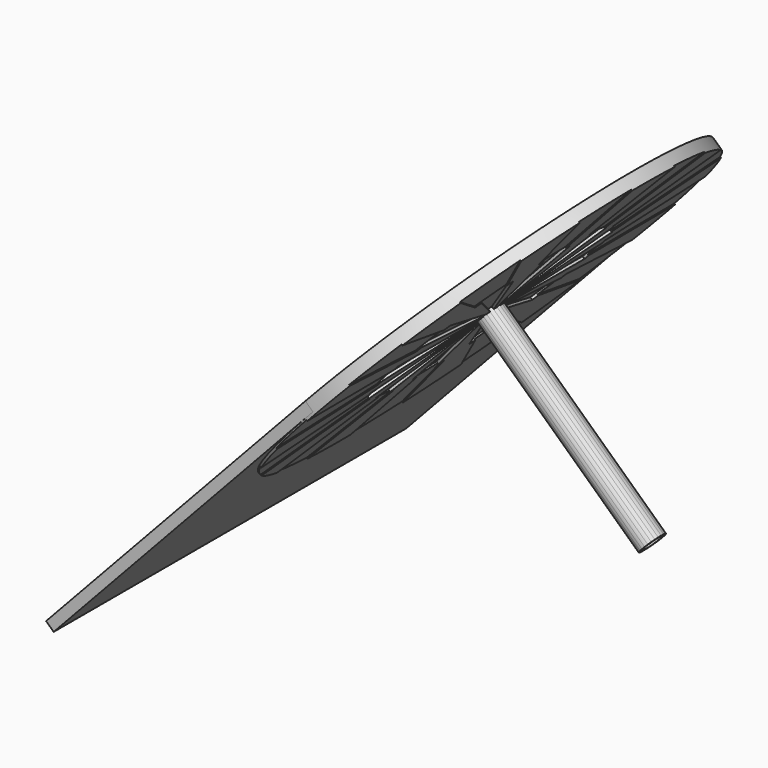
from build123d import *

# Parameters (mm, degrees)
F4_DEPTH = 20
F5_DEPTH = 25
F6_DEPTH = 23
F7_DEPTH = 25
F2_R     = 20
F8_DEPTH = 450


with BuildPart() as f4:
    # F2 (on line) → F4 (new body)
    with BuildSketch(Plane(origin=(34.8782368721, 0, -32.5244820611), x_dir=(0, -1, 0), z_dir=(-0.7313537016, 0, 0.6819983601))):
        with BuildLine():
            ThreePointArc((425, 681.9983600625), (424.8543631146, 670.8731570317), (424.4175522707, 659.7555786592))
            ThreePointArc((424.4175522707, 659.7555786592), (417.8833357147, 604.5482617283), (404.1990194254, 550.6661374531))
            ThreePointArc((404.1990194254, 550.6661374531), (383.5987458487, 499.031143919), (356.4349913768, 450.5267701811))
            ThreePointArc((356.4349913768, 450.5267701811), (323.17253538, 405.9829395222), (284.3805077025, 366.1618092346))
            ThreePointArc((284.3805077025, 366.1618092346), (240.7226506931, 331.7447298981), (192.9459623893, 303.3205872824))
            ThreePointArc((192.9459623893, 303.3205872824), (141.8679151744, 281.3757263483), (88.3624685975, 266.2856297506))
            ThreePointArc((88.3624685975, 266.2856297506), (33.3451156843, 258.3084932259), (-22.2427814033, 257.5808077918))
            ThreePointArc((-22.2427814033, 257.5808077918), (-77.4500983342, 264.1150243478), (-131.3322226094, 277.7993406371))
            ThreePointArc((-131.3322226094, 277.7993406371), (-182.9672161435, 298.3996142138), (-231.4715898814, 325.5633686857))
            ThreePointArc((-231.4715898814, 325.5633686857), (-276.0154205403, 358.8258246825), (-315.8365508279, 397.61785236))
            ThreePointArc((-315.8365508279, 397.61785236), (-350.2536301644, 441.2757093694), (-378.6777727801, 489.0523976732))
            ThreePointArc((-378.6777727801, 489.0523976732), (-400.6226337142, 540.1304448881), (-415.7127303119, 593.635891465))
            ThreePointArc((-415.7127303119, 593.635891465), (-422.6718055315, 637.5737631737), (-425, 681.9983600625))
            Line((-425, 681.9983600625), (-425, -51.1412327573))
            Line((-425, -51.1412327573), (425, -51.1412327573))
            Line((425, -51.1412327573), (425, 681.9983600625))
        make_face()
    extrude(amount=-F4_DEPTH)



with BuildPart() as f4b:
    # F2 (on line) → F4, piece 2 (new body)
    with BuildSketch(Plane(origin=(34.8782368721, 0, -32.5244820611), x_dir=(0, -1, 0), z_dir=(-0.7313537016, 0, 0.6819983601))):
        with BuildLine():
            ThreePointArc((0, 706.9983600625), (3.2631548055, 706.7844815968), (6.4704761276, 706.1465057197))
            Line((6.4704761276, 706.1465057197), (58.2342851481, 899.3316709775))
            ThreePointArc((58.2342851481, 899.3316709775), (35.1977546341, 904.2282366964), (11.7755901547, 906.6900053823))
            ThreePointArc((11.7755901547, 906.6900053823), (5.8898133693, 906.921258182), (0, 906.9983600625))
            Line((0, 906.9983600625), (0, 706.9983600625))
        make_face()
    extrude(amount=-F4_DEPTH)



with BuildPart() as f4c:
    # F2 (on line) → F4, piece 3 (new body)
    with BuildSketch(Plane(origin=(34.8782368721, 0, -32.5244820611), x_dir=(0, -1, 0), z_dir=(-0.7313537016, 0, 0.6819983601))):
        with BuildLine():
            ThreePointArc((12.5, 703.6489951571), (15.2190357252, 701.8321935698), (17.6776695297, 699.6760295922))
            Line((17.6776695297, 699.6760295922), (159.099025767, 841.0973858295))
            ThreePointArc((159.099025767, 841.0973858295), (141.5970879862, 856.8562013903), (122.5437828784, 870.6992378502))
            ThreePointArc((122.5437828784, 870.6992378502), (117.5621770611, 873.8423970422), (112.5, 876.854075914))
            Line((112.5, 876.854075914), (12.5, 703.6489951571))
        make_face()
    extrude(amount=-F4_DEPTH)



with BuildPart() as f4d:
    # F2 (on line) → F4, piece 4 (new body)
    with BuildSketch(Plane(origin=(34.8782368721, 0, -32.5244820611), x_dir=(0, -1, 0), z_dir=(-0.7313537016, 0, 0.6819983601))):
        with BuildLine():
            ThreePointArc((21.6506350946, 694.4983600625), (23.0969883128, 691.5654458716), (24.1481456572, 688.4688361901))
            Line((24.1481456572, 688.4688361901), (217.333310915, 740.2326452106))
            ThreePointArc((217.333310915, 740.2326452106), (210.0555959619, 762.6311487102), (200.4764679424, 784.1462225039))
            ThreePointArc((200.4764679424, 784.1462225039), (197.7338503489, 789.3590811209), (194.8557158515, 794.4983600625))
            Line((194.8557158515, 794.4983600625), (21.6506350946, 694.4983600625))
        make_face()
    extrude(amount=-F4_DEPTH)



with BuildPart() as f4e:
    # F2 (on line) → F4, piece 5 (new body)
    with BuildSketch(Plane(origin=(34.8782368721, 0, -32.5244820611), x_dir=(0, -1, 0), z_dir=(-0.7313537016, 0, 0.6819983601))):
        with BuildLine():
            Line((225, 681.9983600625), (25, 681.9983600625))
            ThreePointArc((25, 681.9983600625), (24.7861215343, 678.735205257), (24.1481456572, 675.5278839349))
            Line((24.1481456572, 675.5278839349), (217.333310915, 623.7640749144))
            ThreePointArc((217.333310915, 623.7640749144), (222.2298766339, 646.8006054284), (224.6916453198, 670.2227699078))
            ThreePointArc((224.6916453198, 670.2227699078), (224.9228981195, 676.1085466932), (225, 681.9983600625))
        make_face()
    extrude(amount=-F4_DEPTH)


with BuildPart() as f4f:
    # F2 (on line) → F4, piece 6 (new body)
    with BuildSketch(Plane(origin=(34.8782368721, 0, -32.5244820611), x_dir=(0, -1, 0), z_dir=(-0.7313537016, 0, 0.6819983601))):
        with BuildLine():
            Line((194.8557158515, 569.4983600625), (21.6506350946, 669.4983600625))
            ThreePointArc((21.6506350946, 669.4983600625), (19.8338335073, 666.7793243373), (17.6776695297, 664.3206905328))
            Line((17.6776695297, 664.3206905328), (159.099025767, 522.8993342955))
            ThreePointArc((159.099025767, 522.8993342955), (174.8578413278, 540.4012720763), (188.7008777877, 559.4545771841))
            ThreePointArc((188.7008777877, 559.4545771841), (191.8440369797, 564.4361830014), (194.8557158515, 569.4983600625))
        make_face()
    extrude(amount=-F4_DEPTH)


with BuildPart() as f4g:
    # F2 (on line) → F4, piece 7 (new body)
    with BuildSketch(Plane(origin=(34.8782368721, 0, -32.5244820611), x_dir=(0, -1, 0), z_dir=(-0.7313537016, 0, 0.6819983601))):
        with BuildLine():
            Line((112.5, 487.142644211), (12.5, 660.3477249679))
            ThreePointArc((12.5, 660.3477249679), (9.5670858091, 658.9013717497), (6.4704761276, 657.8502144053))
            Line((6.4704761276, 657.8502144053), (58.2342851481, 464.6650491475))
            ThreePointArc((58.2342851481, 464.6650491475), (80.6327886477, 471.9427641006), (102.1478624414, 481.5218921201))
            ThreePointArc((102.1478624414, 481.5218921201), (107.3607210584, 484.2645097136), (112.5, 487.142644211))
        make_face()
    extrude(amount=-F4_DEPTH)


with BuildPart() as f4h:
    # F2 (on line) → F4, piece 8 (new body)
    with BuildSketch(Plane(origin=(34.8782368721, 0, -32.5244820611), x_dir=(0, -1, 0), z_dir=(-0.7313537016, 0, 0.6819983601))):
        with BuildLine():
            Line((0, 456.9983600625), (0, 656.9983600625))
            ThreePointArc((0, 656.9983600625), (-3.2631548055, 657.2122385282), (-6.4704761276, 657.8502144053))
            Line((-6.4704761276, 657.8502144053), (-58.2342851481, 464.6650491475))
            ThreePointArc((-58.2342851481, 464.6650491475), (-35.1977546341, 459.7684834286), (-11.7755901547, 457.3067147427))
            ThreePointArc((-11.7755901547, 457.3067147427), (-5.8898133693, 457.075461943), (0, 456.9983600625))
        make_face()
    extrude(amount=-F4_DEPTH)


with BuildPart() as f4i:
    # F2 (on line) → F4, piece 9 (new body)
    with BuildSketch(Plane(origin=(34.8782368721, 0, -32.5244820611), x_dir=(0, -1, 0), z_dir=(-0.7313537016, 0, 0.6819983601))):
        with BuildLine():
            Line((-112.5, 487.142644211), (-12.5, 660.3477249679))
            ThreePointArc((-12.5, 660.3477249679), (-15.2190357252, 662.1645265552), (-17.6776695297, 664.3206905328))
            Line((-17.6776695297, 664.3206905328), (-159.099025767, 522.8993342955))
            ThreePointArc((-159.099025767, 522.8993342955), (-141.5970879862, 507.1405187347), (-122.5437828784, 493.2974822748))
            ThreePointArc((-122.5437828784, 493.2974822748), (-117.5621770611, 490.1543230828), (-112.5, 487.142644211))
        make_face()
    extrude(amount=-F4_DEPTH)


with BuildPart() as f4j:
    # F2 (on line) → F4, piece 10 (new body)
    with BuildSketch(Plane(origin=(34.8782368721, 0, -32.5244820611), x_dir=(0, -1, 0), z_dir=(-0.7313537016, 0, 0.6819983601))):
        with BuildLine():
            Line((-194.8557158515, 569.4983600625), (-21.6506350946, 669.4983600625))
            ThreePointArc((-21.6506350946, 669.4983600625), (-23.0969883128, 672.4312742534), (-24.1481456572, 675.5278839349))
            Line((-24.1481456572, 675.5278839349), (-217.333310915, 623.7640749144))
            ThreePointArc((-217.333310915, 623.7640749144), (-210.0555959619, 601.3655714148), (-200.4764679424, 579.8504976211))
            ThreePointArc((-200.4764679424, 579.8504976211), (-197.7338503489, 574.6376390041), (-194.8557158515, 569.4983600625))
        make_face()
    extrude(amount=-F4_DEPTH)


with BuildPart() as f4k:
    # F2 (on line) → F4, piece 11 (new body)
    with BuildSketch(Plane(origin=(34.8782368721, 0, -32.5244820611), x_dir=(0, -1, 0), z_dir=(-0.7313537016, 0, 0.6819983601))):
        with BuildLine():
            ThreePointArc((-217.333310915, 740.2326452106), (-222.2298766339, 717.1961146966), (-224.6916453198, 693.7739502172))
            ThreePointArc((-224.6916453198, 693.7739502172), (-224.9228981195, 687.8881734318), (-225, 681.9983600625))
            Line((-225, 681.9983600625), (-25, 681.9983600625))
            ThreePointArc((-25, 681.9983600625), (-24.7861215343, 685.261514868), (-24.1481456572, 688.4688361901))
            Line((-24.1481456572, 688.4688361901), (-217.333310915, 740.2326452106))
        make_face()
    extrude(amount=-F4_DEPTH)



with BuildPart() as f4l:
    # F2 (on line) → F4, piece 12 (new body)
    with BuildSketch(Plane(origin=(34.8782368721, 0, -32.5244820611), x_dir=(0, -1, 0), z_dir=(-0.7313537016, 0, 0.6819983601))):
        with BuildLine():
            ThreePointArc((-21.6506350946, 694.4983600625), (-19.8338335073, 697.2173957877), (-17.6776695297, 699.6760295922))
            Line((-17.6776695297, 699.6760295922), (-159.099025767, 841.0973858295))
            ThreePointArc((-159.099025767, 841.0973858295), (-174.8578413278, 823.5954480487), (-188.7008777877, 804.5421429409))
            ThreePointArc((-188.7008777877, 804.5421429409), (-191.8440369797, 799.5605371236), (-194.8557158515, 794.4983600625))
            Line((-194.8557158515, 794.4983600625), (-21.6506350946, 694.4983600625))
        make_face()
    extrude(amount=-F4_DEPTH)



with BuildPart() as f4m:
    # F2 (on line) → F4, piece 13 (new body)
    with BuildSketch(Plane(origin=(34.8782368721, 0, -32.5244820611), x_dir=(0, -1, 0), z_dir=(-0.7313537016, 0, 0.6819983601))):
        with BuildLine():
            ThreePointArc((-12.5, 703.6489951571), (-9.5670858091, 705.0953483753), (-6.4704761276, 706.1465057197))
            Line((-6.4704761276, 706.1465057197), (-58.2342851481, 899.3316709775))
            ThreePointArc((-58.2342851481, 899.3316709775), (-80.6327886477, 892.0539560244), (-102.1478624414, 882.4748280049))
            ThreePointArc((-102.1478624414, 882.4748280049), (-107.3607210584, 879.7322104114), (-112.5, 876.854075914))
            Line((-112.5, 876.854075914), (-12.5, 703.6489951571))
        make_face()
    extrude(amount=-F4_DEPTH)



with BuildPart() as f5:
    # F2 (on line) → F5 (new body)
    with BuildSketch(Plane(origin=(34.8782368721, 0, -32.5244820611), x_dir=(0, -1, 0), z_dir=(-0.7313537016, 0, 0.6819983601))):
        with BuildLine():
            ThreePointArc((17.6776695297, 699.6760295922), (19.8338335073, 697.2173957877), (21.6506350946, 694.4983600625))
            Line((21.6506350946, 694.4983600625), (194.8557158515, 794.4983600625))
            ThreePointArc((194.8557158515, 794.4983600625), (182.0288237344, 814.2500418283), (167.2075857324, 832.5527464932))
            ThreePointArc((167.2075857324, 832.5527464932), (163.2092334778, 836.8781395936), (159.099025767, 841.0973858295))
            Line((159.099025767, 841.0973858295), (17.6776695297, 699.6760295922))
        make_face()
    extrude(amount=-F5_DEPTH)


with BuildPart() as f5b:
    # F2 (on line) → F5, piece 2 (new body)
    with BuildSketch(Plane(origin=(34.8782368721, 0, -32.5244820611), x_dir=(0, -1, 0), z_dir=(-0.7313537016, 0, 0.6819983601))):
        with BuildLine():
            ThreePointArc((6.4704761276, 706.1465057197), (9.5670858091, 705.0953483753), (12.5, 703.6489951571))
            Line((12.5, 703.6489951571), (112.5, 876.854075914))
            ThreePointArc((112.5, 876.854075914), (91.5157446921, 887.5460880321), (69.5288237344, 895.9860762289))
            ThreePointArc((69.5288237344, 895.9860762289), (63.9034525584, 897.7328004078), (58.2342851481, 899.3316709775))
            Line((58.2342851481, 899.3316709775), (6.4704761276, 706.1465057197))
        make_face()
    extrude(amount=-F5_DEPTH)


with BuildPart() as f5c:
    # F2 (on line) → F5, piece 3 (new body)
    with BuildSketch(Plane(origin=(34.8782368721, 0, -32.5244820611), x_dir=(0, -1, 0), z_dir=(-0.7313537016, 0, 0.6819983601))):
        with BuildLine():
            ThreePointArc((-6.4704761276, 706.1465057197), (-3.2631548055, 706.7844815968), (0, 706.9983600625))
            Line((0, 706.9983600625), (0, 906.9983600625))
            ThreePointArc((0, 906.9983600625), (-23.5189042352, 905.7657865204), (-46.780130434, 902.0815702276))
            ThreePointArc((-46.780130434, 902.0815702276), (-52.5252068676, 900.781592152), (-58.2342851481, 899.3316709775))
            Line((-58.2342851481, 899.3316709775), (-6.4704761276, 706.1465057197))
        make_face()
    extrude(amount=-F5_DEPTH)


with BuildPart() as f5d:
    # F2 (on line) → F5, piece 4 (new body)
    with BuildSketch(Plane(origin=(34.8782368721, 0, -32.5244820611), x_dir=(0, -1, 0), z_dir=(-0.7313537016, 0, 0.6819983601))):
        with BuildLine():
            ThreePointArc((-17.6776695297, 699.6760295922), (-15.2190357252, 701.8321935698), (-12.5, 703.6489951571))
            Line((-12.5, 703.6489951571), (-112.5, 876.854075914))
            ThreePointArc((-112.5, 876.854075914), (-132.2516817658, 864.0271837969), (-150.5543864307, 849.2059457949))
            ThreePointArc((-150.5543864307, 849.2059457949), (-154.8797795311, 845.2075935403), (-159.099025767, 841.0973858295))
            Line((-159.099025767, 841.0973858295), (-17.6776695297, 699.6760295922))
        make_face()
    extrude(amount=-F5_DEPTH)


with BuildPart() as f5e:
    # F2 (on line) → F5, piece 5 (new body)
    with BuildSketch(Plane(origin=(34.8782368721, 0, -32.5244820611), x_dir=(0, -1, 0), z_dir=(-0.7313537016, 0, 0.6819983601))):
        with BuildLine():
            ThreePointArc((-24.1481456572, 688.4688361901), (-23.0969883128, 691.5654458716), (-21.6506350946, 694.4983600625))
            Line((-21.6506350946, 694.4983600625), (-194.8557158515, 794.4983600625))
            ThreePointArc((-194.8557158515, 794.4983600625), (-205.5477279696, 773.5141047546), (-213.9877161664, 751.5271837969))
            ThreePointArc((-213.9877161664, 751.5271837969), (-215.7344403453, 745.9018126209), (-217.333310915, 740.2326452106))
            Line((-217.333310915, 740.2326452106), (-24.1481456572, 688.4688361901))
        make_face()
    extrude(amount=-F5_DEPTH)


with BuildPart() as f5f:
    # F2 (on line) → F5, piece 6 (new body)
    with BuildSketch(Plane(origin=(34.8782368721, 0, -32.5244820611), x_dir=(0, -1, 0), z_dir=(-0.7313537016, 0, 0.6819983601))):
        with BuildLine():
            ThreePointArc((-225, 681.9983600625), (-223.7674264579, 658.4794558273), (-220.0832101651, 635.2182296285))
            ThreePointArc((-220.0832101651, 635.2182296285), (-218.7832320895, 629.4731531949), (-217.333310915, 623.7640749144))
            Line((-217.333310915, 623.7640749144), (-24.1481456572, 675.5278839349))
            ThreePointArc((-24.1481456572, 675.5278839349), (-24.7861215343, 678.735205257), (-25, 681.9983600625))
            Line((-25, 681.9983600625), (-225, 681.9983600625))
        make_face()
    extrude(amount=-F5_DEPTH)


with BuildPart() as f5g:
    # F2 (on line) → F5, piece 7 (new body)
    with BuildSketch(Plane(origin=(34.8782368721, 0, -32.5244820611), x_dir=(0, -1, 0), z_dir=(-0.7313537016, 0, 0.6819983601))):
        with BuildLine():
            Line((-159.099025767, 522.8993342955), (-17.6776695297, 664.3206905328))
            ThreePointArc((-17.6776695297, 664.3206905328), (-19.8338335073, 666.7793243373), (-21.6506350946, 669.4983600625))
            Line((-21.6506350946, 669.4983600625), (-194.8557158515, 569.4983600625))
            ThreePointArc((-194.8557158515, 569.4983600625), (-182.0288237344, 549.7466782967), (-167.2075857324, 531.4439736318))
            ThreePointArc((-167.2075857324, 531.4439736318), (-163.2092334778, 527.1185805314), (-159.099025767, 522.8993342955))
        make_face()
    extrude(amount=-F5_DEPTH)


with BuildPart() as f5h:
    # F2 (on line) → F5, piece 8 (new body)
    with BuildSketch(Plane(origin=(34.8782368721, 0, -32.5244820611), x_dir=(0, -1, 0), z_dir=(-0.7313537016, 0, 0.6819983601))):
        with BuildLine():
            Line((-58.2342851481, 464.6650491475), (-6.4704761276, 657.8502144053))
            ThreePointArc((-6.4704761276, 657.8502144053), (-9.5670858091, 658.9013717497), (-12.5, 660.3477249679))
            Line((-12.5, 660.3477249679), (-112.5, 487.142644211))
            ThreePointArc((-112.5, 487.142644211), (-91.5157446921, 476.4506320929), (-69.5288237344, 468.0106438961))
            ThreePointArc((-69.5288237344, 468.0106438961), (-63.9034525584, 466.2639197172), (-58.2342851481, 464.6650491475))
        make_face()
    extrude(amount=-F5_DEPTH)


with BuildPart() as f5i:
    # F2 (on line) → F5, piece 9 (new body)
    with BuildSketch(Plane(origin=(34.8782368721, 0, -32.5244820611), x_dir=(0, -1, 0), z_dir=(-0.7313537016, 0, 0.6819983601))):
        with BuildLine():
            Line((58.2342851481, 464.6650491475), (6.4704761276, 657.8502144053))
            ThreePointArc((6.4704761276, 657.8502144053), (3.2631548055, 657.2122385282), (0, 656.9983600625))
            Line((0, 656.9983600625), (0, 456.9983600625))
            ThreePointArc((0, 456.9983600625), (23.5189042352, 458.2309336046), (46.780130434, 461.9151498974))
            ThreePointArc((46.780130434, 461.9151498974), (52.5252068676, 463.215127973), (58.2342851481, 464.6650491475))
        make_face()
    extrude(amount=-F5_DEPTH)


with BuildPart() as f5j:
    # F2 (on line) → F5, piece 10 (new body)
    with BuildSketch(Plane(origin=(34.8782368721, 0, -32.5244820611), x_dir=(0, -1, 0), z_dir=(-0.7313537016, 0, 0.6819983601))):
        with BuildLine():
            Line((159.099025767, 522.8993342955), (17.6776695297, 664.3206905328))
            ThreePointArc((17.6776695297, 664.3206905328), (15.2190357252, 662.1645265552), (12.5, 660.3477249679))
            Line((12.5, 660.3477249679), (112.5, 487.142644211))
            ThreePointArc((112.5, 487.142644211), (132.2516817658, 499.9695363281), (150.5543864307, 514.7907743301))
            ThreePointArc((150.5543864307, 514.7907743301), (154.8797795311, 518.7891265847), (159.099025767, 522.8993342955))
        make_face()
    extrude(amount=-F5_DEPTH)


with BuildPart() as f5k:
    # F2 (on line) → F5, piece 11 (new body)
    with BuildSketch(Plane(origin=(34.8782368721, 0, -32.5244820611), x_dir=(0, -1, 0), z_dir=(-0.7313537016, 0, 0.6819983601))):
        with BuildLine():
            Line((217.333310915, 623.7640749144), (24.1481456572, 675.5278839349))
            ThreePointArc((24.1481456572, 675.5278839349), (23.0969883128, 672.4312742534), (21.6506350946, 669.4983600625))
            Line((21.6506350946, 669.4983600625), (194.8557158515, 569.4983600625))
            ThreePointArc((194.8557158515, 569.4983600625), (205.5477279696, 590.4826153704), (213.9877161664, 612.4695363281))
            ThreePointArc((213.9877161664, 612.4695363281), (215.7344403453, 618.0949075041), (217.333310915, 623.7640749144))
        make_face()
    extrude(amount=-F5_DEPTH)


with BuildPart() as f5l:
    # F2 (on line) → F5, piece 12 (new body)
    with BuildSketch(Plane(origin=(34.8782368721, 0, -32.5244820611), x_dir=(0, -1, 0), z_dir=(-0.7313537016, 0, 0.6819983601))):
        with BuildLine():
            ThreePointArc((24.1481456572, 688.4688361901), (24.7861215343, 685.261514868), (25, 681.9983600625))
            Line((25, 681.9983600625), (225, 681.9983600625))
            ThreePointArc((225, 681.9983600625), (223.7674264579, 705.5172642977), (220.0832101651, 728.7784904965))
            ThreePointArc((220.0832101651, 728.7784904965), (218.7832320895, 734.5235669301), (217.333310915, 740.2326452106))
            Line((217.333310915, 740.2326452106), (24.1481456572, 688.4688361901))
        make_face()
    extrude(amount=-F5_DEPTH)


with BuildPart() as f4d_1:
    add(f4d.part)

    add(f5l.part)  # F6 merges F5l
    # F2 (on line) → F6 (join)
    with BuildSketch(Plane(origin=(34.8782368721, 0, -32.5244820611), x_dir=(0, -1, 0), z_dir=(-0.7313537016, 0, 0.6819983601))):
        with BuildLine():
            ThreePointArc((200.4764679424, 784.1462225039), (210.0555959619, 762.6311487102), (217.333310915, 740.2326452106))
            ThreePointArc((217.333310915, 740.2326452106), (218.7832320895, 734.5235669301), (220.0832101651, 728.7784904965))
            Line((220.0832101651, 728.7784904965), (415.7127303119, 770.36082866))
            ThreePointArc((415.7127303119, 770.36082866), (400.6226337142, 823.8662752369), (378.6777727801, 874.9443224518))
            Line((378.6777727801, 874.9443224518), (200.4764679424, 784.1462225039))
        make_face()
    extrude(amount=-F6_DEPTH)


with BuildPart() as f4c_1:
    add(f4c.part)

    add(f5.part)  # F6#2 merges F5
    # F2 (on line) → F6, piece 2 (join)
    with BuildSketch(Plane(origin=(34.8782368721, 0, -32.5244820611), x_dir=(0, -1, 0), z_dir=(-0.7313537016, 0, 0.6819983601))):
        with BuildLine():
            ThreePointArc((122.5437828784, 870.6992378502), (141.5970879862, 856.8562013903), (159.099025767, 841.0973858295))
            ThreePointArc((159.099025767, 841.0973858295), (163.2092334778, 836.8781395936), (167.2075857324, 832.5527464932))
            Line((167.2075857324, 832.5527464932), (315.8365508279, 966.378867765))
            ThreePointArc((315.8365508279, 966.378867765), (276.0154205403, 1005.1708954425), (231.4715898814, 1038.4333514393))
            Line((231.4715898814, 1038.4333514393), (122.5437828784, 870.6992378502))
        make_face()
    extrude(amount=-F6_DEPTH)


with BuildPart() as f4b_1:
    add(f4b.part)

    add(f5b.part)  # F6#3 merges F5b
    # F2 (on line) → F6, piece 3 (join)
    with BuildSketch(Plane(origin=(34.8782368721, 0, -32.5244820611), x_dir=(0, -1, 0), z_dir=(-0.7313537016, 0, 0.6819983601))):
        with BuildLine():
            ThreePointArc((11.7755901547, 906.6900053823), (35.1977546341, 904.2282366964), (58.2342851481, 899.3316709775))
            ThreePointArc((58.2342851481, 899.3316709775), (63.9034525584, 897.7328004078), (69.5288237344, 895.9860762289))
            Line((69.5288237344, 895.9860762289), (131.3322226094, 1086.1973794879))
            ThreePointArc((131.3322226094, 1086.1973794879), (77.4500983342, 1099.8816957772), (22.2427814033, 1106.4159123332))
            Line((22.2427814033, 1106.4159123332), (11.7755901547, 906.6900053823))
        make_face()
    extrude(amount=-F6_DEPTH)


with BuildPart() as f4m_1:
    add(f4m.part)

    add(f5c.part)  # F6#4 merges F5c
    # F2 (on line) → F6, piece 4 (join)
    with BuildSketch(Plane(origin=(34.8782368721, 0, -32.5244820611), x_dir=(0, -1, 0), z_dir=(-0.7313537016, 0, 0.6819983601))):
        with BuildLine():
            ThreePointArc((-102.1478624414, 882.4748280049), (-80.6327886477, 892.0539560244), (-58.2342851481, 899.3316709775))
            ThreePointArc((-58.2342851481, 899.3316709775), (-52.5252068676, 900.781592152), (-46.780130434, 902.0815702276))
            Line((-46.780130434, 902.0815702276), (-88.3624685975, 1097.7110903744))
            ThreePointArc((-88.3624685975, 1097.7110903744), (-141.8679151744, 1082.6209937767), (-192.9459623893, 1060.6761328426))
            Line((-192.9459623893, 1060.6761328426), (-102.1478624414, 882.4748280049))
        make_face()
    extrude(amount=-F6_DEPTH)


with BuildPart() as f4l_1:
    add(f4l.part)

    add(f5d.part)  # F6#5 merges F5d
    # F2 (on line) → F6, piece 5 (join)
    with BuildSketch(Plane(origin=(34.8782368721, 0, -32.5244820611), x_dir=(0, -1, 0), z_dir=(-0.7313537016, 0, 0.6819983601))):
        with BuildLine():
            ThreePointArc((-188.7008777877, 804.5421429409), (-174.8578413278, 823.5954480487), (-159.099025767, 841.0973858295))
            ThreePointArc((-159.099025767, 841.0973858295), (-154.8797795311, 845.2075935403), (-150.5543864307, 849.2059457949))
            Line((-150.5543864307, 849.2059457949), (-284.3805077025, 997.8349108904))
            ThreePointArc((-284.3805077025, 997.8349108904), (-323.17253538, 958.0137806028), (-356.4349913768, 913.4699499439))
            Line((-356.4349913768, 913.4699499439), (-188.7008777877, 804.5421429409))
        make_face()
    extrude(amount=-F6_DEPTH)


with BuildPart() as f4k_1:
    add(f4k.part)

    add(f5e.part)  # F6#6 merges F5e
    # F2 (on line) → F6, piece 6 (join)
    with BuildSketch(Plane(origin=(34.8782368721, 0, -32.5244820611), x_dir=(0, -1, 0), z_dir=(-0.7313537016, 0, 0.6819983601))):
        with BuildLine():
            ThreePointArc((-404.1990194254, 813.3305826719), (-417.8833357147, 759.4484583967), (-424.4175522707, 704.2411414657))
            Line((-424.4175522707, 704.2411414657), (-224.6916453198, 693.7739502172))
            ThreePointArc((-224.6916453198, 693.7739502172), (-222.2298766339, 717.1961146966), (-217.333310915, 740.2326452106))
            ThreePointArc((-217.333310915, 740.2326452106), (-215.7344403453, 745.9018126209), (-213.9877161664, 751.5271837969))
            Line((-213.9877161664, 751.5271837969), (-404.1990194254, 813.3305826719))
        make_face()
    extrude(amount=-F6_DEPTH)


with BuildPart() as f4_1:
    add(f4.part)

    add(f4e.part)  # F6#7 merges F4e

    add(f4f.part)  # F6#7 merges F4f

    add(f4g.part)  # F6#7 merges F4g

    add(f4h.part)  # F6#7 merges F4h

    add(f4i.part)  # F6#7 merges F4i

    add(f4j.part)  # F6#7 merges F4j

    add(f5f.part)  # F6#7 merges F5f

    add(f5g.part)  # F6#7 merges F5g

    add(f5h.part)  # F6#7 merges F5h

    add(f5i.part)  # F6#7 merges F5i

    add(f5j.part)  # F6#7 merges F5j

    add(f5k.part)  # F6#7 merges F5k
    # F2 (on line) → F6, piece 7 (join)
    with BuildSketch(Plane(origin=(34.8782368721, 0, -32.5244820611), x_dir=(0, -1, 0), z_dir=(-0.7313537016, 0, 0.6819983601))):
        with BuildLine():
            ThreePointArc((102.1478624414, 481.5218921201), (80.6327886477, 471.9427641006), (58.2342851481, 464.6650491475))
            ThreePointArc((58.2342851481, 464.6650491475), (52.5252068676, 463.215127973), (46.780130434, 461.9151498974))
            Line((46.780130434, 461.9151498974), (88.3624685975, 266.2856297506))
            ThreePointArc((88.3624685975, 266.2856297506), (141.8679151744, 281.3757263483), (192.9459623893, 303.3205872824))
            Line((192.9459623893, 303.3205872824), (102.1478624414, 481.5218921201))
        make_face()
        with BuildLine():
            ThreePointArc((188.7008777877, 559.4545771841), (174.8578413278, 540.4012720763), (159.099025767, 522.8993342955))
            ThreePointArc((159.099025767, 522.8993342955), (154.8797795311, 518.7891265847), (150.5543864307, 514.7907743301))
            Line((150.5543864307, 514.7907743301), (284.3805077025, 366.1618092346))
            ThreePointArc((284.3805077025, 366.1618092346), (323.17253538, 405.9829395222), (356.4349913768, 450.5267701811))
            Line((356.4349913768, 450.5267701811), (188.7008777877, 559.4545771841))
        make_face()
        with BuildLine():
            ThreePointArc((224.6916453198, 670.2227699078), (222.2298766339, 646.8006054284), (217.333310915, 623.7640749144))
            ThreePointArc((217.333310915, 623.7640749144), (215.7344403453, 618.0949075041), (213.9877161664, 612.4695363281))
            Line((213.9877161664, 612.4695363281), (404.1990194254, 550.6661374531))
            ThreePointArc((404.1990194254, 550.6661374531), (417.8833357147, 604.5482617283), (424.4175522707, 659.7555786592))
            Line((424.4175522707, 659.7555786592), (224.6916453198, 670.2227699078))
        make_face()
        with BuildLine():
            Line((-220.0832101651, 635.2182296285), (-415.7127303119, 593.635891465))
            ThreePointArc((-415.7127303119, 593.635891465), (-400.6226337142, 540.1304448881), (-378.6777727801, 489.0523976732))
            Line((-378.6777727801, 489.0523976732), (-200.4764679424, 579.8504976211))
            ThreePointArc((-200.4764679424, 579.8504976211), (-210.0555959619, 601.3655714148), (-217.333310915, 623.7640749144))
            ThreePointArc((-217.333310915, 623.7640749144), (-218.7832320895, 629.4731531949), (-220.0832101651, 635.2182296285))
        make_face()
        with BuildLine():
            ThreePointArc((-122.5437828784, 493.2974822748), (-141.5970879862, 507.1405187347), (-159.099025767, 522.8993342955))
            ThreePointArc((-159.099025767, 522.8993342955), (-163.2092334778, 527.1185805314), (-167.2075857324, 531.4439736318))
            Line((-167.2075857324, 531.4439736318), (-315.8365508279, 397.61785236))
            ThreePointArc((-315.8365508279, 397.61785236), (-276.0154205403, 358.8258246825), (-231.4715898814, 325.5633686857))
            Line((-231.4715898814, 325.5633686857), (-122.5437828784, 493.2974822748))
        make_face()
        with BuildLine():
            ThreePointArc((-11.7755901547, 457.3067147427), (-35.1977546341, 459.7684834286), (-58.2342851481, 464.6650491475))
            ThreePointArc((-58.2342851481, 464.6650491475), (-63.9034525584, 466.2639197172), (-69.5288237344, 468.0106438961))
            Line((-69.5288237344, 468.0106438961), (-131.3322226094, 277.7993406371))
            ThreePointArc((-131.3322226094, 277.7993406371), (-77.4500983342, 264.1150243478), (-22.2427814033, 257.5808077918))
            Line((-22.2427814033, 257.5808077918), (-11.7755901547, 457.3067147427))
        make_face()
    extrude(amount=-F6_DEPTH)


    add(f4b_1.part)  # F7 merges F4b

    add(f4c_1.part)  # F7 merges F4c

    add(f4d_1.part)  # F7 merges F4d

    add(f4k_1.part)  # F7 merges F4k

    add(f4l_1.part)  # F7 merges F4l

    add(f4m_1.part)  # F7 merges F4m
    # F2 (on line) → F7 (join)
    with BuildSketch(Plane(origin=(34.8782368721, 0, -32.5244820611), x_dir=(0, -1, 0), z_dir=(-0.7313537016, 0, 0.6819983601))):
        with BuildLine():
            ThreePointArc((150.5543864307, 514.7907743301), (132.2516817658, 499.9695363281), (112.5, 487.142644211))
            ThreePointArc((112.5, 487.142644211), (107.3607210584, 484.2645097136), (102.1478624414, 481.5218921201))
            Line((102.1478624414, 481.5218921201), (192.9459623893, 303.3205872824))
            ThreePointArc((192.9459623893, 303.3205872824), (240.7226506931, 331.7447298981), (284.3805077025, 366.1618092346))
            Line((284.3805077025, 366.1618092346), (150.5543864307, 514.7907743301))
        make_face()
        with BuildLine():
            ThreePointArc((213.9877161664, 612.4695363281), (205.5477279696, 590.4826153704), (194.8557158515, 569.4983600625))
            ThreePointArc((194.8557158515, 569.4983600625), (191.8440369797, 564.4361830014), (188.7008777877, 559.4545771841))
            Line((188.7008777877, 559.4545771841), (356.4349913768, 450.5267701811))
            ThreePointArc((356.4349913768, 450.5267701811), (383.5987458487, 499.031143919), (404.1990194254, 550.6661374531))
            Line((404.1990194254, 550.6661374531), (213.9877161664, 612.4695363281))
        make_face()
        with BuildLine():
            ThreePointArc((220.0832101651, 728.7784904965), (223.7674264579, 705.5172642977), (225, 681.9983600625))
            ThreePointArc((225, 681.9983600625), (224.9228981195, 676.1085466932), (224.6916453198, 670.2227699078))
            Line((224.6916453198, 670.2227699078), (424.4175522707, 659.7555786592))
            ThreePointArc((424.4175522707, 659.7555786592), (424.8543631146, 670.8731570317), (425, 681.9983600625))
            ThreePointArc((425, 681.9983600625), (422.6718055315, 726.4229569513), (415.7127303119, 770.36082866))
            Line((415.7127303119, 770.36082866), (220.0832101651, 728.7784904965))
        make_face()
        with BuildLine():
            ThreePointArc((167.2075857324, 832.5527464932), (182.0288237344, 814.2500418283), (194.8557158515, 794.4983600625))
            ThreePointArc((194.8557158515, 794.4983600625), (197.7338503489, 789.3590811209), (200.4764679424, 784.1462225039))
            Line((200.4764679424, 784.1462225039), (378.6777727801, 874.9443224518))
            ThreePointArc((378.6777727801, 874.9443224518), (350.2536301644, 922.7210107556), (315.8365508279, 966.378867765))
            Line((315.8365508279, 966.378867765), (167.2075857324, 832.5527464932))
        make_face()
        with BuildLine():
            ThreePointArc((69.5288237344, 895.9860762289), (91.5157446921, 887.5460880321), (112.5, 876.854075914))
            ThreePointArc((112.5, 876.854075914), (117.5621770611, 873.8423970422), (122.5437828784, 870.6992378502))
            Line((122.5437828784, 870.6992378502), (231.4715898814, 1038.4333514393))
            ThreePointArc((231.4715898814, 1038.4333514393), (182.9672161435, 1065.5971059112), (131.3322226094, 1086.1973794879))
            Line((131.3322226094, 1086.1973794879), (69.5288237344, 895.9860762289))
        make_face()
        with BuildLine():
            ThreePointArc((-46.780130434, 902.0815702276), (-23.5189042352, 905.7657865204), (0, 906.9983600625))
            ThreePointArc((0, 906.9983600625), (5.8898133693, 906.921258182), (11.7755901547, 906.6900053823))
            Line((11.7755901547, 906.6900053823), (22.2427814033, 1106.4159123332))
            ThreePointArc((22.2427814033, 1106.4159123332), (-33.3451156843, 1105.6882268991), (-88.3624685975, 1097.7110903744))
            Line((-88.3624685975, 1097.7110903744), (-46.780130434, 902.0815702276))
        make_face()
        with BuildLine():
            ThreePointArc((-150.5543864307, 849.2059457949), (-132.2516817658, 864.0271837969), (-112.5, 876.854075914))
            ThreePointArc((-112.5, 876.854075914), (-107.3607210584, 879.7322104114), (-102.1478624414, 882.4748280049))
            Line((-102.1478624414, 882.4748280049), (-192.9459623893, 1060.6761328426))
            ThreePointArc((-192.9459623893, 1060.6761328426), (-240.7226506931, 1032.2519902269), (-284.3805077025, 997.8349108904))
            Line((-284.3805077025, 997.8349108904), (-150.5543864307, 849.2059457949))
        make_face()
        with BuildLine():
            ThreePointArc((-356.4349913768, 913.4699499439), (-383.5987458487, 864.965576206), (-404.1990194254, 813.3305826719))
            Line((-404.1990194254, 813.3305826719), (-213.9877161664, 751.5271837969))
            ThreePointArc((-213.9877161664, 751.5271837969), (-205.5477279696, 773.5141047546), (-194.8557158515, 794.4983600625))
            ThreePointArc((-194.8557158515, 794.4983600625), (-191.8440369797, 799.5605371236), (-188.7008777877, 804.5421429409))
            Line((-188.7008777877, 804.5421429409), (-356.4349913768, 913.4699499439))
        make_face()
        with BuildLine():
            ThreePointArc((-424.4175522707, 704.2411414657), (-424.8543631146, 693.1235630933), (-425, 681.9983600625))
            ThreePointArc((-425, 681.9983600625), (-422.6718055315, 637.5737631737), (-415.7127303119, 593.635891465))
            Line((-415.7127303119, 593.635891465), (-220.0832101651, 635.2182296285))
            ThreePointArc((-220.0832101651, 635.2182296285), (-223.7674264579, 658.4794558273), (-225, 681.9983600625))
            ThreePointArc((-225, 681.9983600625), (-224.9228981195, 687.8881734318), (-224.6916453198, 693.7739502172))
            Line((-224.6916453198, 693.7739502172), (-424.4175522707, 704.2411414657))
        make_face()
        with BuildLine():
            Line((-200.4764679424, 579.8504976211), (-378.6777727801, 489.0523976732))
            ThreePointArc((-378.6777727801, 489.0523976732), (-350.2536301644, 441.2757093694), (-315.8365508279, 397.61785236))
            Line((-315.8365508279, 397.61785236), (-167.2075857324, 531.4439736318))
            ThreePointArc((-167.2075857324, 531.4439736318), (-182.0288237344, 549.7466782967), (-194.8557158515, 569.4983600625))
            ThreePointArc((-194.8557158515, 569.4983600625), (-197.7338503489, 574.6376390041), (-200.4764679424, 579.8504976211))
        make_face()
        with BuildLine():
            ThreePointArc((-69.5288237344, 468.0106438961), (-91.5157446921, 476.4506320929), (-112.5, 487.142644211))
            ThreePointArc((-112.5, 487.142644211), (-117.5621770611, 490.1543230828), (-122.5437828784, 493.2974822748))
            Line((-122.5437828784, 493.2974822748), (-231.4715898814, 325.5633686857))
            ThreePointArc((-231.4715898814, 325.5633686857), (-182.9672161435, 298.3996142138), (-131.3322226094, 277.7993406371))
            Line((-131.3322226094, 277.7993406371), (-69.5288237344, 468.0106438961))
        make_face()
        with BuildLine():
            ThreePointArc((46.780130434, 461.9151498974), (23.5189042352, 458.2309336046), (0, 456.9983600625))
            ThreePointArc((0, 456.9983600625), (-5.8898133693, 457.075461943), (-11.7755901547, 457.3067147427))
            Line((-11.7755901547, 457.3067147427), (-22.2427814033, 257.5808077918))
            ThreePointArc((-22.2427814033, 257.5808077918), (33.3451156843, 258.3084932259), (88.3624685975, 266.2856297506))
            Line((88.3624685975, 266.2856297506), (46.780130434, 461.9151498974))
        make_face()
    extrude(amount=-F7_DEPTH)

    # F2 (on line) → F8 (join)
    with BuildSketch(Plane(origin=(34.8782368721, 0, -32.5244820611), x_dir=(0, -1, 0), z_dir=(-0.7313537016, 0, 0.6819983601))):
        with BuildLine():
            ThreePointArc((24.1481456572, 675.5278839349), (24.7861215343, 678.735205257), (25, 681.9983600625))
            ThreePointArc((25, 681.9983600625), (24.7861215343, 685.261514868), (24.1481456572, 688.4688361901))
            ThreePointArc((24.1481456572, 688.4688361901), (23.0969883128, 691.5654458716), (21.6506350946, 694.4983600625))
            ThreePointArc((21.6506350946, 694.4983600625), (19.8338335073, 697.2173957877), (17.6776695297, 699.6760295922))
            ThreePointArc((17.6776695297, 699.6760295922), (15.2190357252, 701.8321935698), (12.5, 703.6489951571))
            ThreePointArc((12.5, 703.6489951571), (9.5670858091, 705.0953483753), (6.4704761276, 706.1465057197))
            ThreePointArc((6.4704761276, 706.1465057197), (3.2631548055, 706.7844815968), (0, 706.9983600625))
            ThreePointArc((0, 706.9983600625), (-3.2631548055, 706.7844815968), (-6.4704761276, 706.1465057197))
            ThreePointArc((-6.4704761276, 706.1465057197), (-9.5670858091, 705.0953483753), (-12.5, 703.6489951571))
            ThreePointArc((-12.5, 703.6489951571), (-15.2190357252, 701.8321935698), (-17.6776695297, 699.6760295922))
            ThreePointArc((-17.6776695297, 699.6760295922), (-19.8338335073, 697.2173957877), (-21.6506350946, 694.4983600625))
            ThreePointArc((-21.6506350946, 694.4983600625), (-23.0969883128, 691.5654458716), (-24.1481456572, 688.4688361901))
            ThreePointArc((-24.1481456572, 688.4688361901), (-24.7861215343, 685.261514868), (-25, 681.9983600625))
            ThreePointArc((-25, 681.9983600625), (-24.7861215343, 678.735205257), (-24.1481456572, 675.5278839349))
            ThreePointArc((-24.1481456572, 675.5278839349), (-23.0969883128, 672.4312742534), (-21.6506350946, 669.4983600625))
            ThreePointArc((-21.6506350946, 669.4983600625), (-19.8338335073, 666.7793243373), (-17.6776695297, 664.3206905328))
            ThreePointArc((-17.6776695297, 664.3206905328), (-15.2190357252, 662.1645265552), (-12.5, 660.3477249679))
            ThreePointArc((-12.5, 660.3477249679), (-9.5670858091, 658.9013717497), (-6.4704761276, 657.8502144053))
            ThreePointArc((-6.4704761276, 657.8502144053), (-3.2631548055, 657.2122385282), (0, 656.9983600625))
            ThreePointArc((0, 656.9983600625), (3.2631548055, 657.2122385282), (6.4704761276, 657.8502144053))
            ThreePointArc((6.4704761276, 657.8502144053), (9.5670858091, 658.9013717497), (12.5, 660.3477249679))
            ThreePointArc((12.5, 660.3477249679), (15.2190357252, 662.1645265552), (17.6776695297, 664.3206905328))
            ThreePointArc((17.6776695297, 664.3206905328), (19.8338335073, 666.7793243373), (21.6506350946, 669.4983600625))
            ThreePointArc((21.6506350946, 669.4983600625), (23.0969883128, 672.4312742534), (24.1481456572, 675.5278839349))
        make_face()
        with Locations((0, 681.9983600625)):
            Circle(F2_R, mode=Mode.SUBTRACT)
    extrude(amount=-F8_DEPTH)


solid = f4_1.part
